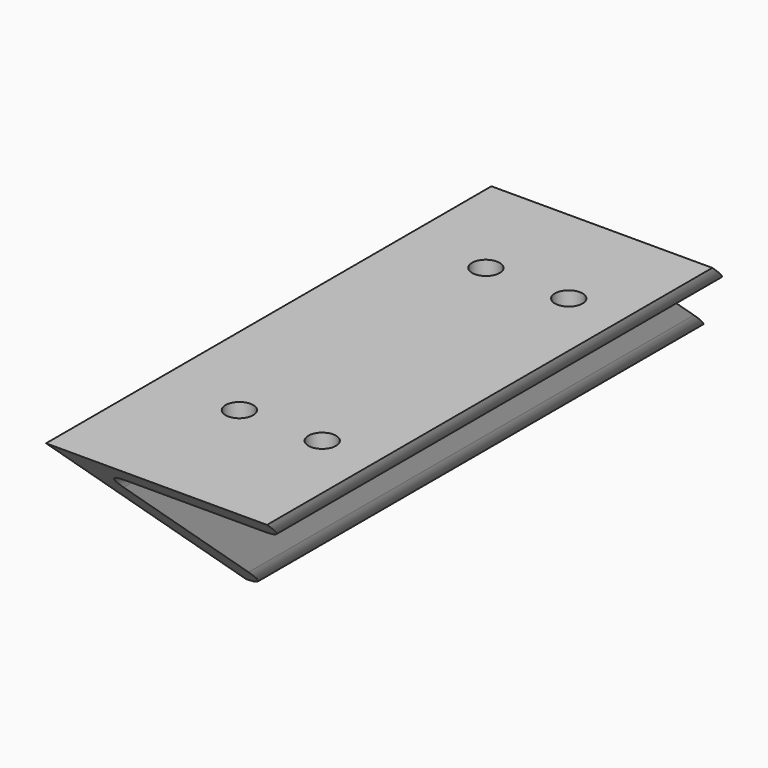
from build123d import *

# Parameters (mm, degrees)
F1_DEPTH = 292
F3_DEPTH = 80
F4_R     = 5
F5_DEPTH = 25
F6_R     = 5
F7_DEPTH = 25


with BuildPart() as f1:
    # F0 (on Front) → F1 (new body)
    with BuildSketch(Plane.XZ):
        with BuildLine():
            Line((-10.877076, 89.111448), (-90.877076, 89.111448))
            Line((-90.877076, 89.111448), (-90.877076, 9.111448))
            ThreePointArc((-90.877076, 9.111448), (-83.806008, 12.04038), (-80.877076, 19.111448))
            Line((-80.877076, 19.111448), (-80.877076, 69.111448))
            ThreePointArc((-80.877076, 69.111448), (-77.948143, 76.182516), (-70.877076, 79.111448))
            Line((-70.877076, 79.111448), (-20.877076, 79.111448))
            ThreePointArc((-20.877076, 79.111448), (-13.806008, 82.04038), (-10.877076, 89.111448))
        make_face()
    extrude(amount=F1_DEPTH)

    # F2 (on face) → F3 (cut)
    with BuildSketch(Plane(origin=(-90.877076, 0, 0), x_dir=(0, -1, 0), z_dir=(-1, 0, 0))):
        Polygon((292, 9.111448), (292, 89.111448), (201.576449, 9.111448), align=None)
        Polygon((0, 9.111448), (90.423551, 89.111448), (0, 89.111448), align=None)
    extrude(amount=-F3_DEPTH, mode=Mode.SUBTRACT)

    # F4 (on face) → F5 (cut)
    with BuildSketch(Plane(origin=(-90.877076, 0, 0), x_dir=(0, -1, 0), z_dir=(-1, 0, 0))):
        with Locations((212, 49.111448)):
            Circle(F4_R)
        with Locations((80, 49.111448)):
            Circle(F4_R)
    extrude(amount=-F5_DEPTH, mode=Mode.SUBTRACT)

    # F6 (on face) → F7 (cut)
    with BuildSketch(Plane.XY.offset(89.111448)):
        with Locations((-60.877076, -242)):
            Circle(F6_R)
        with Locations((-60.877076, -130.423551)):
            Circle(F6_R)
        with Locations((-30.877076, -130.423551)):
            Circle(F6_R)
        with Locations((-30.877076, -242)):
            Circle(F6_R)
    extrude(amount=-F7_DEPTH, mode=Mode.SUBTRACT)


solid = f1.part
